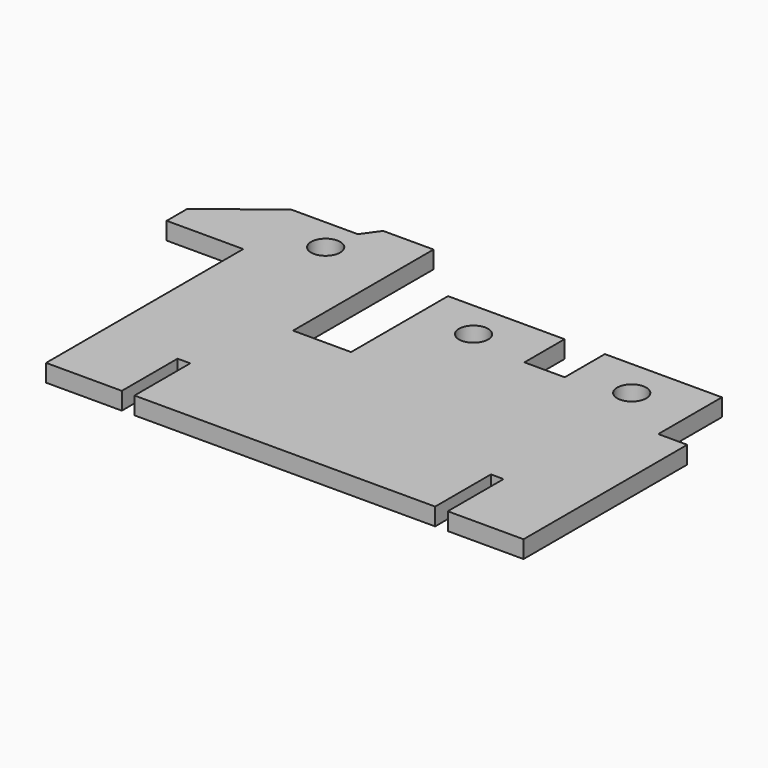
from build123d import *

# Parameters (mm, degrees)
F0_R     = 2.5
F1_DEPTH = 3


with BuildPart() as f1:
    # F0 (on Top) → F1 (new body)
    with BuildSketch(Plane.XY):
        Polygon((-39.556731, 21.845164), (-39.553627, -20.484759), (-26.546011, -20.484759), (-26.546011, -8.508867), (-24.371615, -8.508867), (-24.371615, -20.484759), (27.26781, -20.484759), (27.26781, -8.508867), (29.437356, -8.508867), (29.437356, -20.484759), (42.45235, -20.484759), (42.45235, 14.656669), (37.471663, 14.656669), (37.471663, 28.326931), (17.370312, 28.326931), (17.370312, 19.705349), (10.447066, 19.705349), (10.447066, 28.326931), (-9.571652, 28.326931), (-9.571652, 7.515255), (-19.540947, 7.515255), (-19.540947, 37.685213), (-28.199399, 37.685213), (-30.24873, 34.820885), (-41.68877, 34.820885), (-52.706983, 26.25263), (-52.706983, 21.845164), align=None)
        with Locations((-31.259071, 29.166326)):
            Circle(F0_R, mode=Mode.SUBTRACT)
        with Locations((0, 21.845164)):
            Circle(F0_R, mode=Mode.SUBTRACT)
        with Locations((27.232263, 21.762259)):
            Circle(F0_R, mode=Mode.SUBTRACT)
    extrude(amount=F1_DEPTH)


solid = f1.part
